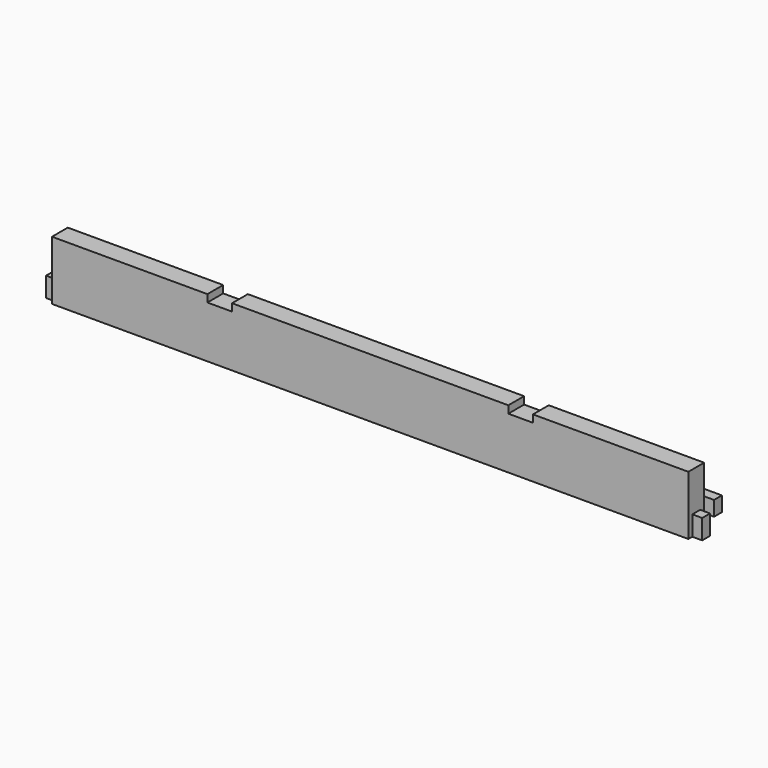
from build123d import *

# Parameters (mm, degrees)
F0_W      = 844.55
F0_H      = 76.2
F1_DEPTH  = 25.4
F2_W      = 12.7
F2_H      = 50.8
F3_DEPTH  = 25.401
F4_W      = 12.7
F4_H      = 6.35
F5_DEPTH  = 76.201
F6_R      = 4.564063
F7_DEPTH  = 50.8
F8_R      = 12.7
F9_DEPTH  = 19.05
F10_W     = 12.7
F10_H     = 19.05
F11_DEPTH = 12.7
F12_W     = 31.75
F12_H     = 25.4
F13_DEPTH = 9.525


with BuildPart() as f1:
    # F0 (on Front) → F1 (new body)
    with BuildSketch(Plane.XZ):
        with Locations((422.275, 38.1)):
            Rectangle(F0_W, F0_H)
    extrude(amount=F1_DEPTH)

    # F2 (on face) → F3 (cut, through all)
    with BuildSketch(Plane.XZ.offset(25.4)):
        with Locations((6.35, 50.8)):
            Rectangle(F2_W, F2_H)
        with Locations((838.2, 50.8)):
            Rectangle(F2_W, F2_H)
    extrude(amount=-F3_DEPTH, mode=Mode.SUBTRACT)

    # F4 (on face) → F5 (cut, through all)
    with BuildSketch(Plane(origin=(0, 0, 0), x_dir=(1, 0, 0), z_dir=(0, 0, -1))):
        with Locations((838.2, 22.225)):
            Rectangle(F4_W, F4_H)
        with Locations((838.2, 3.175)):
            Rectangle(F4_W, F4_H)
        with Locations((6.35, 22.225)):
            Rectangle(F4_W, F4_H)
        with Locations((6.35, 3.175)):
            Rectangle(F4_W, F4_H)
    extrude(amount=-F5_DEPTH, mode=Mode.SUBTRACT)

    # F6 (on face) → F7 (cut)
    with BuildSketch(Plane(origin=(12.7, 0, 0), x_dir=(0, -1, 0), z_dir=(-1, 0, 0))):
        with Locations((12.7, 50.8)):
            Circle(F6_R)
    extrude(amount=-F7_DEPTH, mode=Mode.SUBTRACT)

    # F8 (on face) → F9 (cut)
    with BuildSketch(Plane(origin=(0, 0, 0), x_dir=(-1, 0, 0), z_dir=(0, 1, 0))):
        with Locations((-66.675, 50.8)):
            Circle(F8_R)
        with Locations((-777.875, 50.8)):
            Circle(F8_R)
    extrude(amount=-F9_DEPTH, mode=Mode.SUBTRACT)

    # F10 (on face) → F11 (join)
    with BuildSketch(Plane(origin=(0, 0, 0), x_dir=(-1, 0, 0), z_dir=(0, 1, 0))):
        Polygon((-777.875, 38.1), (-831.85, 38.1), (-831.85, 19.05), (-12.7, 19.05), (-12.7, 38.1), (-66.675, 38.1), align=None)
        with Locations((-838.2, 28.575)):
            Rectangle(F10_W, F10_H)
        with Locations((-6.35, 28.575)):
            Rectangle(F10_W, F10_H)
    extrude(amount=F11_DEPTH)

    # F12 (on face) → F13 (cut)
    with BuildSketch(Plane.XY.offset(76.2)):
        with Locations((228.6, -12.7)):
            Rectangle(F12_W, F12_H)
        with Locations((615.95, -12.7)):
            Rectangle(F12_W, F12_H)
    extrude(amount=-F13_DEPTH, mode=Mode.SUBTRACT)


solid = f1.part
